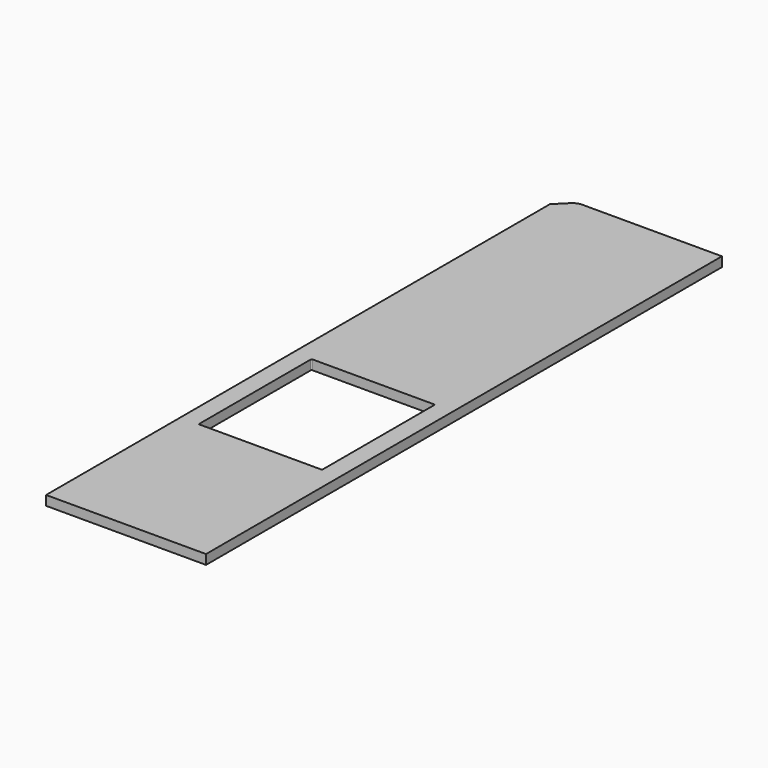
from build123d import *

# Parameters (mm, degrees)
SKETCH_W     = 490
SKETCH_H     = 560
PAD_DEPTH    = 38
FILLET_R     = 4
POCKET_DEPTH = 20
FILLET001_R  = 4
FILLET002_R  = 4
FILLET003_R  = 3


with BuildPart() as part:
    # Sketch → Pad (new body)
    with BuildSketch(Plane.XY):
        with BuildLine():
            Line((0, 0), (45.355339, 45.355339))
            ThreePointArc((80.710678, 60), (61.576507, 56.193977), (45.355339, 45.355339))
            Line((80.710678, 60), (635, 60))
            Line((635, 60), (635, -2500))
            Line((635, -2500), (0, -2500))
            Line((0, -2500), (0, 0))
        make_face()
        with Locations((317.5, -1553.5)):
            Rectangle(SKETCH_W, SKETCH_H, mode=Mode.SUBTRACT)
    extrude(amount=PAD_DEPTH)

    # Fillet
    fillet_edges = [part.edges().sort_by_distance(p)[0] for p in [
        (562.5, -1833.5, 19),
        (562.5, -1273.5, 19),
        (72.5, -1273.5, 19),
        (72.5, -1833.5, 19),
    ]]
    fillet(fillet_edges, radius=FILLET_R)

    # Sketch001 (on Face2 of Fillet) → Pocket (cut)
    with BuildSketch(Plane(origin=(0, 0, 0), x_dir=(1, 0, 0), z_dir=(0, 0, -1))):
        Polygon((105, -60), (105, 10), (80, 35), (80, 70), (140, 70), (140, 35), (115, 10), (115, -60), align=None)
        Polygon((455, -60), (455, 10), (430, 34.999975), (430, 70), (490, 70), (490, 34.999975), (465, 10), (465, -60), align=None)
        Polygon((280, -60), (280, 10), (255, 34.999975), (255, 70), (315, 70), (315, 34.999975), (290, 10), (290, -60), align=None)
    extrude(amount=-POCKET_DEPTH, mode=Mode.SUBTRACT)

    # Fillet001
    fillet001_edges = [part.edges().sort_by_distance(p)[0] for p in [
        (140, -70, 10),
        (140, -35, 10),
        (80, -35, 10),
        (80, -70, 10),
    ]]
    fillet(fillet001_edges, radius=FILLET001_R)

    # Fillet002
    fillet002_edges = [part.edges().sort_by_distance(p)[0] for p in [
        (430, -70, 10),
        (490, -70, 10),
        (490, -34.999975, 10),
        (430, -34.999975, 10),
    ]]
    fillet(fillet002_edges, radius=FILLET002_R)

    # Fillet003
    fillet003_edges = [part.edges().sort_by_distance(p)[0] for p in [
        (315, -70, 10),
        (255, -70, 10),
        (255, -34.999975, 10),
        (315, -34.999975, 10),
    ]]
    fillet(fillet003_edges, radius=FILLET003_R)


solid = part.part
